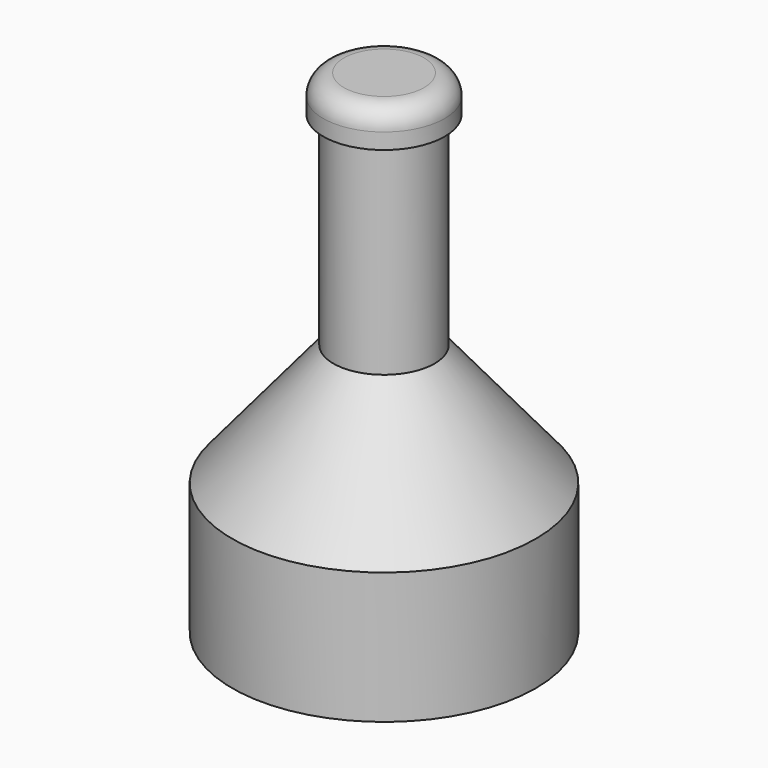
from build123d import *

# Parameters (mm, degrees)
F6_R      = 15
F7_DEPTH  = 9
F8_R      = 5.08
F2_R      = 37.5
F13_DEPTH = 32.5
F10_R     = 37.5
F12_R     = 12.5
F15_DEPTH = 37.5
F4_R      = 12.5
F16_DEPTH = 12.5


with BuildPart() as f7:
    # F6 (on offset) → F7 (new body)
    with BuildSketch(Plane.XY.offset(62.7)):
        Circle(F6_R)
    extrude(amount=F7_DEPTH)

    # F8
    f8_edges = [f7.edges().sort_by_distance(p)[0] for p in [
        (-15, 0, 71.7),
    ]]
    fillet(f8_edges, radius=F8_R)


with BuildPart() as f13:
    # F2 (on offset) → F13 (new body)
    with BuildSketch(Plane.XY.offset(-50)):
        Circle(F2_R)
    extrude(amount=F13_DEPTH)

    # F10 (on offset) → F14 section 0
    with BuildSketch(Plane.XY.offset(-17.5)):
        Circle(F10_R)
    # F12 (on offset) → F14 section 1
    with BuildSketch(Plane.XY.offset(12.5)):
        Circle(F12_R)
    loft()

    # F12 (on offset) → F15 (join)
    with BuildSketch(Plane.XY.offset(12.5)):
        Circle(F12_R)
    extrude(amount=F15_DEPTH)

    # F4 (on offset) → F16 (join)
    with BuildSketch(Plane.XY.offset(50)):
        Circle(F4_R)
    extrude(amount=F16_DEPTH)


solid = Compound([f7.part, f13.part])
